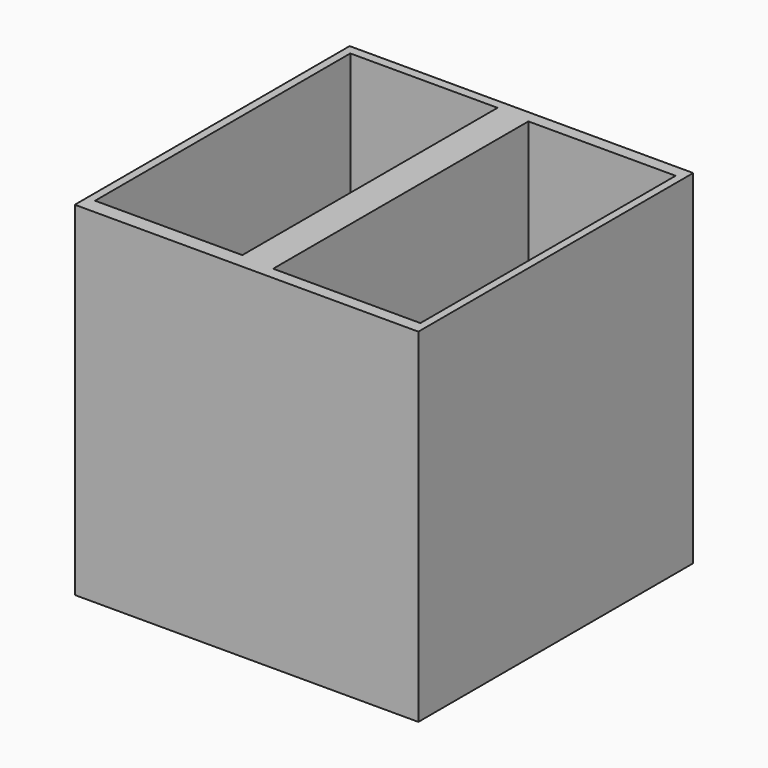
from build123d import *

# Parameters (mm, degrees)
F0_W     = 140
F0_H     = 140
F1_DEPTH = 140
F2_W     = 60
F2_H     = 130
F4_DEPTH = 130
F3_W     = 60
F3_H     = 130
F5_DEPTH = 130


with BuildPart() as f1:
    # F0 (on Top) → F1 (new body)
    with BuildSketch(Plane.XY):
        Rectangle(F0_W, F0_H)
    extrude(amount=F1_DEPTH)

    # F2 (on face) → F4 (cut)
    with BuildSketch(Plane.XY.offset(140)):
        with Locations((36.825541, 0.010989)):
            Rectangle(F2_W, F2_H)
    extrude(amount=-F4_DEPTH, mode=Mode.SUBTRACT)

    # F3 (on face) → F5 (cut)
    with BuildSketch(Plane.XY.offset(140)):
        with Locations((-36.683903, 1.187629)):
            Rectangle(F3_W, F3_H)
    extrude(amount=-F5_DEPTH, mode=Mode.SUBTRACT)


solid = f1.part
